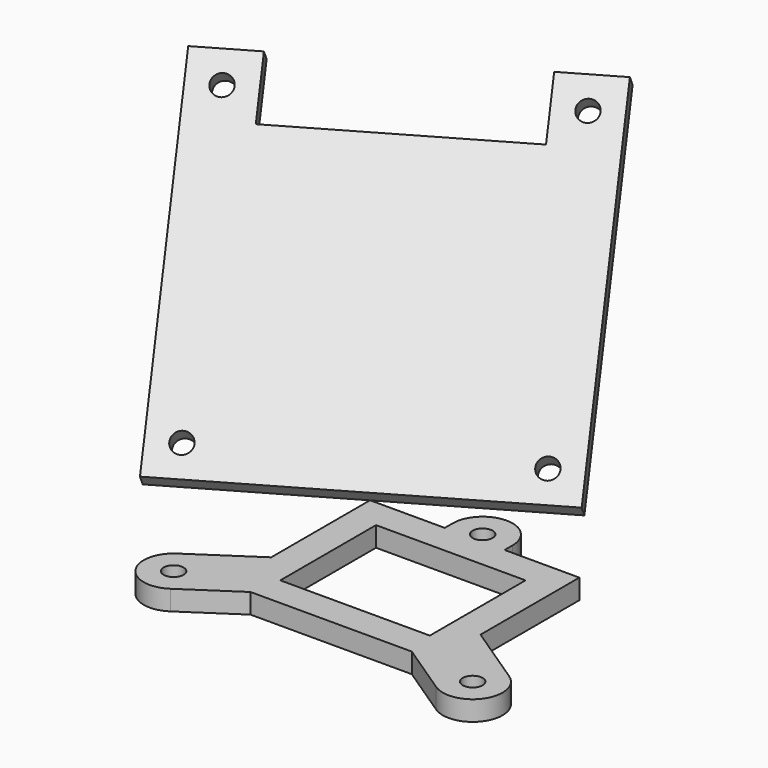
from build123d import *

# Parameters (mm, degrees)
SKETCH001_R             = 1
PAD001_DEPTH            = 2
BODY001_ROLL_ANGLE      = 45
BODY001_PLACEMENT_ANGLE = 30
SKETCH_R                = 1
SKETCH_W                = 15
SKETCH_H                = 12
PAD_DEPTH               = 2


with BuildPart() as oled_mount:
    # Sketch001 → Pad001 (new body)
    with BuildSketch(Plane.XY):
        Polygon((32, 32.5), (32, -3), (-3, -3), (-3, 32.5), (3, 32.5), (3, 26.5), (26, 26.5), (26, 32.5), align=None)
        Circle(SKETCH001_R, mode=Mode.SUBTRACT)
        with Locations((29, 0)):
            Circle(SKETCH001_R, mode=Mode.SUBTRACT)
        with Locations((29, 29.5)):
            Circle(SKETCH001_R, mode=Mode.SUBTRACT)
        with Locations((0, 29.5)):
            Circle(SKETCH001_R, mode=Mode.SUBTRACT)
    extrude(amount=PAD001_DEPTH)


with BuildPart() as oled_mount_1:
    # Body001 roll: moved
    add(oled_mount.part.rotate(Axis((0, 0, 0), (1, 0, 0)), BODY001_ROLL_ANGLE))


with BuildPart() as oled_mount_2:
    # Body001 placement: moved
    add(oled_mount_1.part.moved(Location((3.5, -3, 15))).rotate(Axis((3.5, -3, 15), (0, 0, 1)), BODY001_PLACEMENT_ANGLE))


with BuildPart() as pcb_mount:
    # Sketch → Pad (new body)
    with BuildSketch(Plane.XY):
        with BuildLine():
            ThreePointArc((18, 20), (15, 23), (12, 20))
            Line((12, 20), (12, 19))
            Line((4.5, 19), (12, 19))
            Line((4.5, 6.605551), (4.5, 19))
            Line((-1.664101, 2.496151), (4.5, 6.605551))
            ThreePointArc((-1.664101, 2.496151), (-2.496151, -1.664101), (1.664101, -2.496151))
            Line((1.664101, -2.496151), (6.908327, 1))
            Line((6.908327, 1), (23.091673, 1))
            Line((28.335899, -2.496151), (23.091673, 1))
            ThreePointArc((28.335899, -2.496151), (32.496151, -1.664101), (31.664101, 2.496151))
            Line((31.664101, 2.496151), (25.5, 6.605551))
            Line((25.5, 6.605551), (25.5, 19))
            Line((18, 19), (25.5, 19))
            Line((18, 20), (18, 19))
        make_face()
        Circle(SKETCH_R, mode=Mode.SUBTRACT)
        with Locations((30, 0)):
            Circle(SKETCH_R, mode=Mode.SUBTRACT)
        with Locations((15, 20)):
            Circle(SKETCH_R, mode=Mode.SUBTRACT)
        with Locations((15, 10)):
            Rectangle(SKETCH_W, SKETCH_H, mode=Mode.SUBTRACT)
    extrude(amount=PAD_DEPTH)


solid = Compound([oled_mount_2.part, pcb_mount.part])
